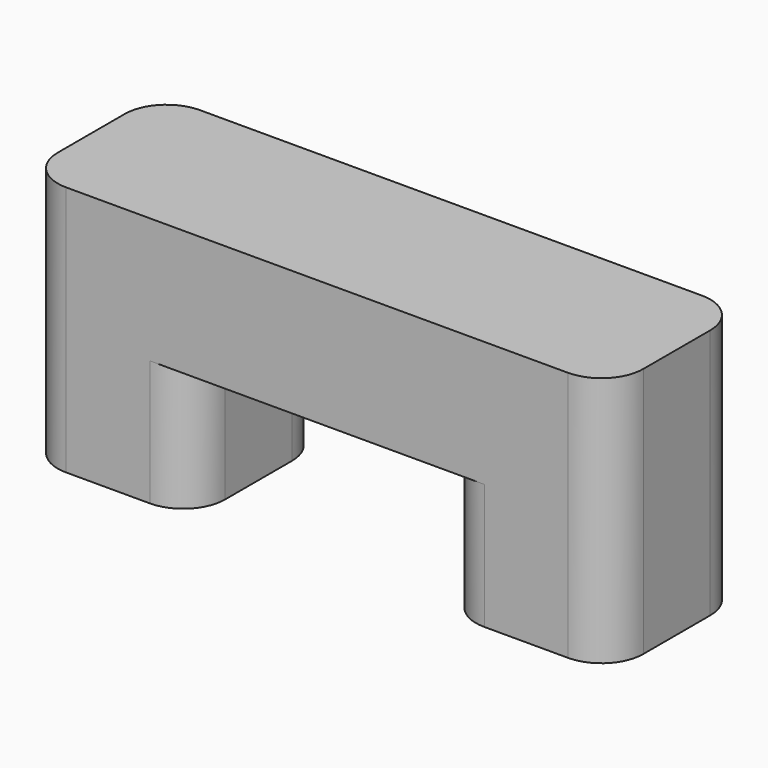
from build123d import *

# Parameters (mm, degrees)
F0_W     = 4
F0_H     = 4
F1_DEPTH = 3
F2_W     = 4
F2_H     = 4
F2_W_2   = 10
F3_DEPTH = 3
F4_R     = 1


with BuildPart() as f1:
    # F0 (on Top) → F1 (new body)
    with BuildSketch(Plane.XY):
        with Locations((-5, 0)):
            Rectangle(F0_W, F0_H)
        with Locations((5, 0)):
            Rectangle(F0_W, F0_H)
    extrude(amount=F1_DEPTH)

    # F2 (on face) → F3 (join)
    with BuildSketch(Plane.XY.offset(3)):
        with Locations((-5, 0)):
            Rectangle(F2_W, F2_H)
        with Locations((2, 0)):
            Rectangle(F2_W_2, F2_H)
    extrude(amount=F3_DEPTH)

    # F4
    f4_edges = [f1.edges().sort_by_distance(p)[0] for p in [
        (-7, -2, 3),
        (-3, -2, 1.5),
        (-3, 2, 1.5),
        (3, -2, 1.5),
        (7, -2, 3),
        (7, 2, 3),
        (3, 2, 1.5),
        (-7, 2, 3),
    ]]
    fillet(f4_edges, radius=F4_R)


solid = f1.part
